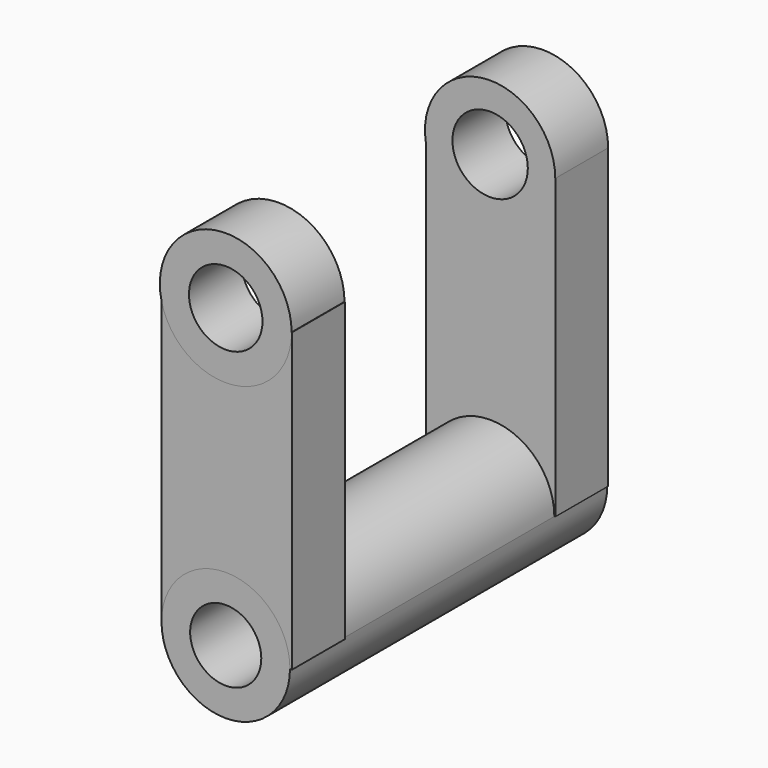
from build123d import *

# Parameters (mm, degrees)
F0_R     = 14.485219
F1_DEPTH = 25.4
F2_DEPTH = 25.4
F0_R_2   = 13.667199
F3_DEPTH = 152.4
F5_DEPTH = 25.4
F4_R     = 14.12985
F6_DEPTH = 25.4


with BuildPart() as f1:
    # F0 (on Front) → F1 (new body)
    with BuildSketch(Plane.XZ):
        with BuildLine():
            ThreePointArc((25.038091, 52.758828), (-2.10842, 77.707988), (-24.682998, 48.556965))
            ThreePointArc((-24.682998, 48.556965), (2.10842, 27.809668), (25.038091, 52.758828))
        make_face()
        with Locations((0, 52.758828)):
            Circle(F0_R, mode=Mode.SUBTRACT)
    extrude(amount=F1_DEPTH)

    # F0 (on Front) → F2 (join)
    with BuildSketch(Plane.XZ):
        with BuildLine():
            ThreePointArc((-24.682998, -61.701007), (0, -37.01801), (24.682998, -61.701007))
            Line((24.682998, -61.701007), (25.038091, -61.701007))
            Line((25.038091, -61.701007), (25.038091, 52.758828))
            ThreePointArc((25.038091, 52.758828), (2.10842, 27.809668), (-24.682998, 48.556965))
            Line((-24.682998, 48.556965), (-24.682998, -61.701007))
        make_face()
    extrude(amount=F2_DEPTH)

    # F0 (on Front) → F3 (join)
    with BuildSketch(Plane.XZ):
        with BuildLine():
            ThreePointArc((-24.682998, -61.701007), (0, -86.384005), (24.682998, -61.701007))
            ThreePointArc((24.682998, -61.701007), (0, -37.01801), (-24.682998, -61.701007))
        make_face()
        with Locations((0, -61.701007)):
            Circle(F0_R_2, mode=Mode.SUBTRACT)
    extrude(amount=F3_DEPTH)


with BuildPart() as f5:
    # F4 (on face) → F5 (new body)
    with BuildSketch(Plane.XZ.offset(152.4)):
        with BuildLine():
            Line((-24.682998, 46.788897), (-24.682998, -61.701007))
            ThreePointArc((-24.682998, -61.701007), (0, -37.01801), (24.682998, -61.701007))
            Line((24.682998, -61.701007), (25.449321, -61.701007))
            Line((25.449321, -61.701007), (25.449321, 52.43437))
            Line((25.449321, 52.43437), (25.320382, 52.43437))
            ThreePointArc((25.320382, 52.43437), (2.84067, 27.273839), (-24.682998, 46.788897))
        make_face()
    extrude(amount=-F5_DEPTH)


with BuildPart() as f6:
    # F4 (on face) → F6 (new body)
    with BuildSketch(Plane.XZ.offset(152.4)):
        with BuildLine():
            ThreePointArc((25.320382, 52.43437), (-2.84067, 77.594901), (-24.682998, 46.788897))
            ThreePointArc((-24.682998, 46.788897), (2.84067, 27.273839), (25.320382, 52.43437))
        make_face()
        with Locations((0, 52.43437)):
            Circle(F4_R, mode=Mode.SUBTRACT)
    extrude(amount=-F6_DEPTH)


solid = Compound([f1.part, f5.part, f6.part])
